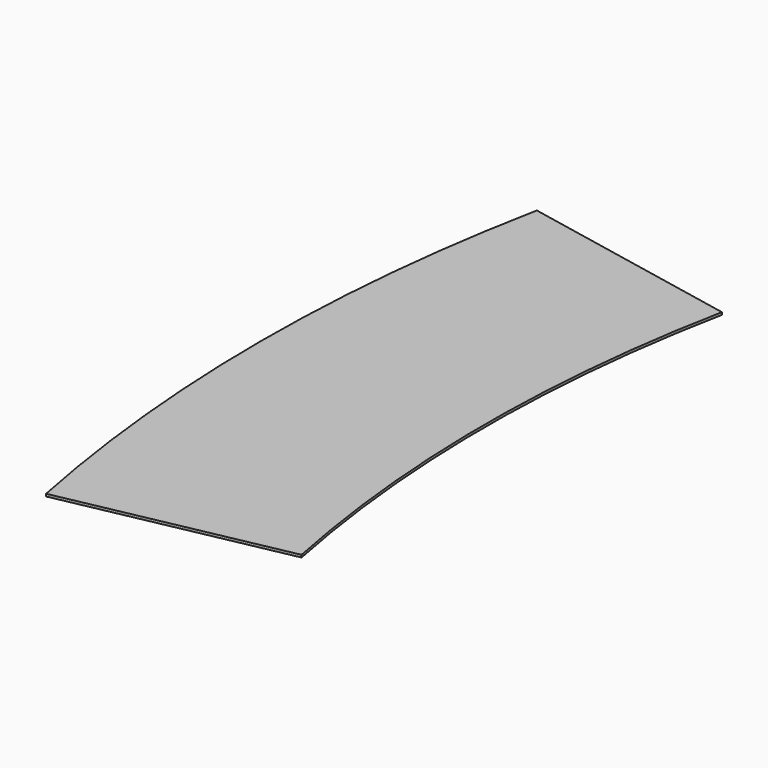
from build123d import *

# Parameters (mm, degrees)
F0_W     = 74.5
F0_H     = 0.8
F1_ANGLE = 22.6


with BuildPart() as f1:
    # F0 (on Front) → F1 (revolve, symmetric)
    with BuildSketch(Plane.XZ) as f1_sk:
        with Locations((78, 0.4)):
            Rectangle(F0_W, F0_H)
    revolve(axis=Axis((560, 0, 6.235936), (0, 0, -1)), revolution_arc=F1_ANGLE / 2)
    revolve(f1_sk.sketch, axis=Axis((560, 0, 6.235936), (0, 0, 1)), revolution_arc=F1_ANGLE / 2)


solid = f1.part
